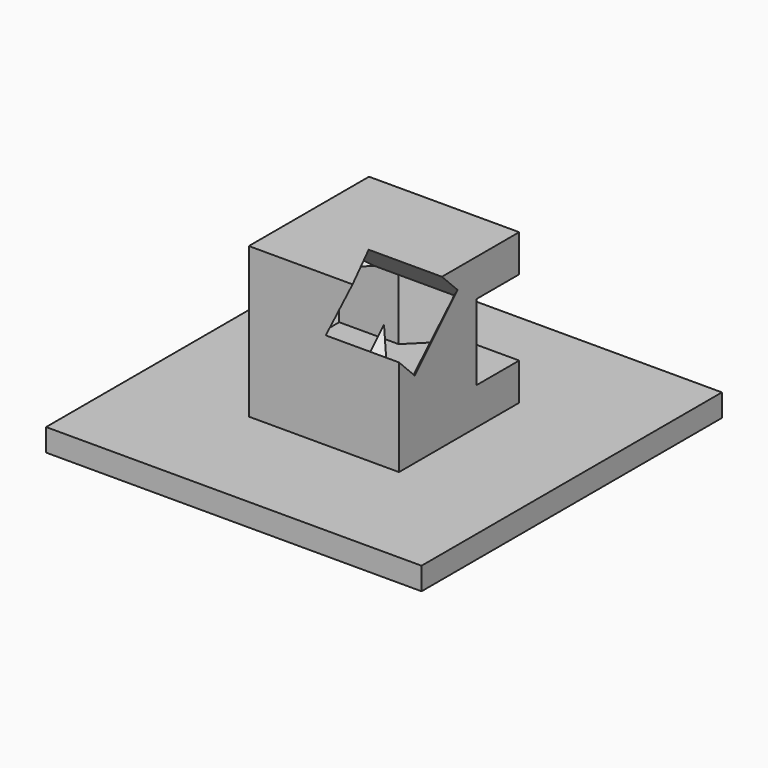
from build123d import *

# Parameters (mm, degrees)
F0_W      = 50
F0_H      = 50
F0_R      = 2.55
F1_DEPTH  = 3
F2_W      = 20
F2_H      = 20
F3_DEPTH  = 20
F4_W      = 10.1
F4_H      = 10.1
F5_DEPTH  = 25
F7_W      = 10.1
F7_H      = 10.1
F8_DEPTH  = 25
F15_W     = 10.1
F15_H     = 10.1
F16_DEPTH = 25


with BuildPart() as f1:
    # F0 (on Top) → F1 (new body)
    with BuildSketch(Plane.XY):
        Rectangle(F0_W, F0_H)
        Circle(F0_R, mode=Mode.SUBTRACT)
    extrude(amount=F1_DEPTH)

    # F2 (on face) → F3 (join)
    with BuildSketch(Plane.XY.offset(3)):
        Rectangle(F2_W, F2_H)
    extrude(amount=F3_DEPTH)

    # F4 (on Right) → F5 (cut)
    with BuildSketch(Plane.YZ):
        with Locations((0, 13)):
            Rectangle(F4_W, F4_H)
    extrude(amount=-F5_DEPTH, mode=Mode.SUBTRACT)

    # F7 (on 3pt) → F8 (cut)
    with BuildSketch(Plane(origin=(0, 0, 0), x_dir=(-0.7071067812, 0.7071067812, 0), z_dir=(0.7071067812, 0.7071067812, 0))):
        with Locations((0, 13)):
            Rectangle(F7_W, F7_H)
    extrude(amount=F8_DEPTH, mode=Mode.SUBTRACT)

    # F15 (on line) → F16 (cut)
    with BuildSketch(Plane(origin=(4.3333333333, -4.3333333333, 4.3333333333), x_dir=(-0.8164965809, -0.4082482905, 0.4082482905), z_dir=(-0.5773502692, 0.5773502692, -0.5773502692))):
        with Locations((5.307227776, 9.1923881554)):
            Rectangle(F15_W, F15_H)
    extrude(amount=-F16_DEPTH, mode=Mode.SUBTRACT)


solid = f1.part
